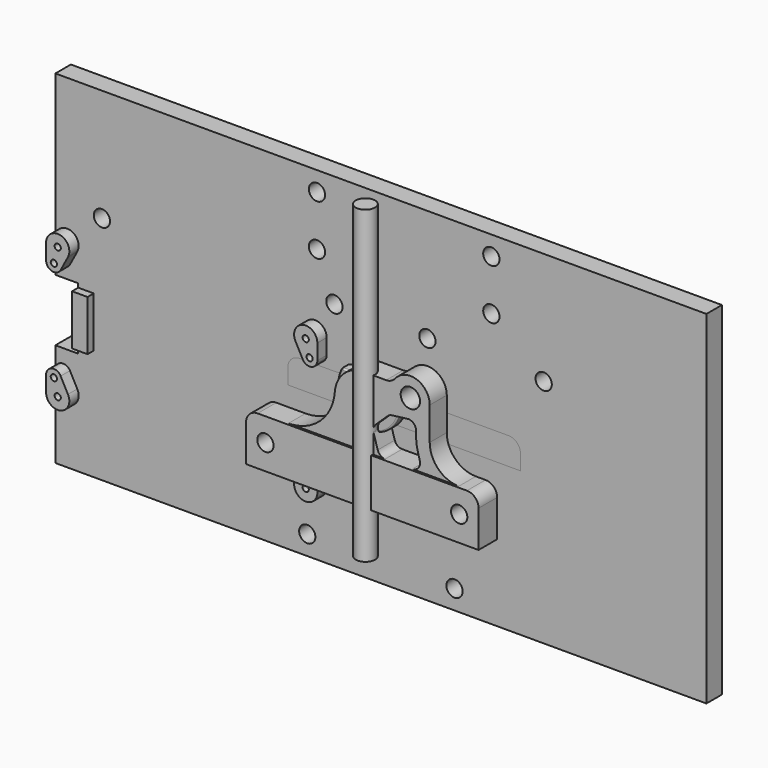
from build123d import *

# Parameters (mm, degrees)
SKETCH001_W          = 168
SKETCH001_H          = 88.5
PAD_DEPTH            = 5
SKETCH022_R          = 2.1
HOLE_DEPTH           = 25
SKETCH018_W          = 4
SKETCH018_H          = 13
PAD004_DEPTH         = 3
SKETCH023_R          = 0.8
SKETCH023_W          = 5.9
SKETCH023_H          = 16
POCKET005_DEPTH      = 5.001
POCKET005_DEPTH_BACK = 3.001
SKETCH025_W          = 8
SKETCH025_H          = 14
POCKET006_DEPTH      = 1
SKETCH027_R          = 0.8
HOLE004_DEPTH        = 2.519312
HOLE004_TIPS_R       = 0.8
SKETCH015_W          = 16
SKETCH015_H          = 16
POCKET_DEPTH         = 4.001
POCKET_DEPTH_BACK    = 4.001
SKETCH016_R          = 2.5
POCKET002_DEPTH      = 8
FILLET_R             = 0.4
FILLET001_R          = 0.4
SKETCH004_W          = 2.5
SKETCH004_H          = 80
SKETCH020_R          = 2.5
SKETCH020_R_2        = 2.1
PAD003_DEPTH         = 6
SKETCH021_W          = 60
SKETCH021_H          = 22
POCKET004_DEPTH      = 0.5
SKETCH010_R          = 4
SKETCH010_R_2        = 2.5
PAD001_DEPTH         = 23
SKETCH011_R          = 5
POCKET001_DEPTH      = 3
POCKET003_DEPTH      = 14
HOLE003_D            = 4.4
HOLE003_DEPTH        = 25
HOLE003_CSINK_D      = 8
HOLE003_CSINK_ANGLE  = 90


with BuildPart() as door:
    # Sketch001 → Pad (new body)
    with BuildSketch(Plane.XZ):
        Rectangle(SKETCH001_W, SKETCH001_H)
    extrude(amount=-PAD_DEPTH)

    # Sketch022 → Hole (cut)
    with BuildSketch(Plane.XZ):
        with Locations((28.5, 39.25)):
            Circle(SKETCH022_R)
        with Locations((28.5, 26.25)):
            Circle(SKETCH022_R)
        with Locations((-16.5, 26.25)):
            Circle(SKETCH022_R)
        with Locations((-16.5, 39.25)):
            Circle(SKETCH022_R)
        with Locations((-72, 15.25)):
            Circle(SKETCH022_R)
        with Locations((-12, 15.25)):
            Circle(SKETCH022_R)
        with Locations((12, 15.25)):
            Circle(SKETCH022_R)
        with Locations((42, 15.25)):
            Circle(SKETCH022_R)
        with Locations((19, -39.25)):
            Circle(SKETCH022_R)
        with Locations((-19, -39.25)):
            Circle(SKETCH022_R)
    extrude(amount=-HOLE_DEPTH, mode=Mode.SUBTRACT)

    # Sketch018 → Pad004 (join)
    with BuildSketch(Plane.XZ):
        with Locations((-76.1, -9)):
            Rectangle(SKETCH018_W, SKETCH018_H)
        with BuildLine():
            ThreePointArc((-14, 7), (-17.727607, 9.910428), (-19.647059, 5.588235))
            Line((-19.647059, 5.588235), (-17.764706, 2.058824))
            ThreePointArc((-17.764706, 2.058824), (-15.514929, 1.059715), (-14, 3))
            Line((-14, 7), (-14, 3))
        make_face()
        with BuildLine():
            ThreePointArc((-19.647059, -25.588235), (-17.727607, -29.910428), (-14, -27))
            Line((-14, -27), (-14, -23))
            ThreePointArc((-14, -23), (-15.514929, -21.059715), (-17.764706, -22.058824))
            Line((-19.647059, -25.588235), (-17.764706, -22.058824))
        make_face()
        with BuildLine():
            ThreePointArc((-80.235294, -22.058824), (-82.485071, -21.059715), (-84, -23))
            Line((-84, -23), (-84, -27))
            ThreePointArc((-84, -27), (-80.272393, -29.910428), (-78.352941, -25.588235))
            Line((-80.235294, -22.058824), (-78.352941, -25.588235))
        make_face()
        with BuildLine():
            ThreePointArc((-78.352941, 5.588235), (-80.272393, 9.910428), (-84, 7))
            Line((-84, 7), (-84, 3))
            ThreePointArc((-84, 3), (-82.485071, 1.059715), (-80.235294, 2.058824))
            Line((-78.352941, 5.588235), (-80.235294, 2.058824))
        make_face()
    extrude(amount=PAD004_DEPTH)

    # Sketch023 → Pocket005 (cut, two sides)
    with BuildSketch(Plane.XZ) as pocket005_sk:
        with Locations((-81, 7)):
            Circle(SKETCH023_R)
        with Locations((-17, 7)):
            Circle(SKETCH023_R)
        with Locations((-17, -27)):
            Circle(SKETCH023_R)
        with Locations((-81, -27)):
            Circle(SKETCH023_R)
        with Locations((-16, 3)):
            Circle(SKETCH023_R)
        with Locations((-16, -23)):
            Circle(SKETCH023_R)
        with Locations((-82, -23)):
            Circle(SKETCH023_R)
        with Locations((-82, 3)):
            Circle(SKETCH023_R)
        with Locations((-81.05, -9.5)):
            Rectangle(SKETCH023_W, SKETCH023_H)
    extrude(amount=-POCKET005_DEPTH, mode=Mode.SUBTRACT)
    extrude(pocket005_sk.sketch, amount=POCKET005_DEPTH_BACK, mode=Mode.SUBTRACT)

    # Sketch025 (on Face45 of Pocket005) → Pocket006 (cut)
    with BuildSketch(Plane.XZ.offset(3)):
        with Locations((-76, -9)):
            Rectangle(SKETCH025_W, SKETCH025_H)
    extrude(amount=-POCKET006_DEPTH, mode=Mode.SUBTRACT)

    # Sketch027 (on Face12 of Pocket006) → Hole004 (cut)
    with BuildSketch(Plane(origin=(-78.1, 0, 0), x_dir=(0, 0, -1), z_dir=(-1, 0, 0))):
        with Locations((5.7, 0.5)):
            Circle(SKETCH027_R)
        with Locations((12.2, 0.5)):
            Circle(SKETCH027_R)
    extrude(amount=-HOLE004_DEPTH, mode=Mode.SUBTRACT)

    # Hole004 tips → Hole004 tip 1 section 0
    with BuildSketch(Plane(origin=(-75.580688, 0, 0), x_dir=(0, 0, -1), z_dir=(-1, 0, 0)), mode=Mode.PRIVATE) as hole004_tip_1_s0:
        with Locations((5.7, 0.5)):
            Circle(HOLE004_TIPS_R)
    loft([hole004_tip_1_s0.sketch, Vertex(-75.1, -0.5, -5.7)], mode=Mode.SUBTRACT)

    # Hole004 tips → Hole004 tip 2 section 0
    with BuildSketch(Plane(origin=(-75.580688, 0, 0), x_dir=(0, 0, -1), z_dir=(-1, 0, 0)), mode=Mode.PRIVATE) as hole004_tip_2_s0:
        with Locations((12.2, 0.5)):
            Circle(HOLE004_TIPS_R)
    loft([hole004_tip_2_s0.sketch, Vertex(-75.1, -0.5, -12.2)], mode=Mode.SUBTRACT)


with BuildPart() as bushing:
    # Sketch013 → Revolution001 (revolve)
    with BuildSketch(Plane.XY):
        Polygon((2.5, 56.737314), (4, 56.737314), (4, 36.737314), (5, 36.737314), (5, 33.737314), (2.5, 33.737314), align=None)
    revolve(axis=Axis((0, 0, 0), (0, 1, 0)))


with BuildPart() as slider:
    # Sketch014 → Revolution002 (revolve)
    with BuildSketch(Plane.YZ):
        with BuildLine():
            Line((-4, 0), (-4, -8))
            Line((-4, -8), (-1.5, -8))
            Line((-1.5, -8), (-0.956943, -6.209724))
            ThreePointArc((0.956943, -6.209724), (0, -5.5), (-0.956943, -6.209724))
            Line((0.956943, -6.209724), (1.5, -8))
            Line((1.5, -8), (4, -8))
            Line((4, -8), (4, 0))
            Line((4, 0), (-4, 0))
        make_face()
    revolve(axis=Axis((0, 0, 0), (0, 1, 0)))

    # Sketch015 → Pocket (cut, two sides)
    with BuildSketch(Plane.XZ) as pocket_sk:
        with Locations((0, 12)):
            Rectangle(SKETCH015_W, SKETCH015_H)
    extrude(amount=-POCKET_DEPTH, mode=Mode.SUBTRACT)
    extrude(pocket_sk.sketch, amount=POCKET_DEPTH_BACK, mode=Mode.SUBTRACT)

    # Sketch016 (on DatumPlane) → Pocket002 (cut)
    with BuildSketch(Plane.XY.offset(4)):
        Circle(SKETCH016_R)
    extrude(amount=-POCKET002_DEPTH, mode=Mode.SUBTRACT)

    # Fillet
    fillet_edges = [slider.edges().sort_by_distance(p)[0] for p in [
        (6.928203, -4, -4),
        (6.928203, -1.5, -4),
        (6.928203, 1.5, -4),
        (6.928203, 4, -4),
    ]]
    fillet(fillet_edges, radius=FILLET_R)

    # Fillet001
    fillet001_edges = [slider.edges().sort_by_distance(p)[0] for p in [
        (0, -4, 4),
    ]]
    fillet(fillet001_edges, radius=FILLET001_R)


with BuildPart() as pin:
    # Sketch004 (on DatumPlane) → Revolution (revolve)
    with BuildSketch(Plane.XZ.offset(5)):
        with Locations((1.25, 3.944427)):
            Rectangle(SKETCH004_W, SKETCH004_H)
    revolve(axis=Axis((0, -5, 0), (0, 0, 1)))


with BuildPart() as lock:
    # Sketch020 → Pad003 (new body)
    with BuildSketch(Plane.XZ):
        with BuildLine():
            Line((30, -24.5), (-30, -24.5))
            Line((-30, -24.5), (-30, -15))
            ThreePointArc((-27, -12), (-29.12132, -12.87868), (-30, -15))
            Line((-27, -12), (-19.442222, -12))
            ThreePointArc((-19.442222, -12), (-11.289827, -8.805593), (-7.477778, -0.923077))
            ThreePointArc((0, 6), (-5.095247, 4.003495), (-7.477778, -0.923077))
            Line((5.755002, 6), (0, 6))
            ThreePointArc((5.755002, 6), (7.05404, 6.295837), (8.096876, 7.125))
            ThreePointArc((17, 4), (13.655956, 8.717818), (8.096876, 7.125))
            Line((17, -4.5), (17, 4))
            ThreePointArc((17, -4.5), (19.196699, -9.803301), (24.5, -12))
            Line((27, -12), (24.5, -12))
            ThreePointArc((30, -15), (29.12132, -12.87868), (27, -12))
            Line((30, -24.5), (30, -15))
        make_face()
        with Locations((0, -1)):
            Circle(SKETCH020_R, mode=Mode.SUBTRACT)
        with Locations((-25, -18)):
            Circle(SKETCH020_R_2, mode=Mode.SUBTRACT)
        with Locations((0, -18)):
            Circle(SKETCH020_R_2, mode=Mode.SUBTRACT)
        with Locations((25, -18)):
            Circle(SKETCH020_R_2, mode=Mode.SUBTRACT)
        with Locations((12, 4)):
            Circle(SKETCH020_R, mode=Mode.SUBTRACT)
        with BuildLine():
            Line((12.5, -12), (5.5, -12))
            ThreePointArc((3.584705, -10.575885), (4.306637, -11.604956), (5.5, -12))
            Line((3.584705, -10.575885), (2.509519, -7))
            ThreePointArc((3.042806, -4.978413), (2.490969, -5.913973), (2.509519, -7))
            Line((3.042806, -4.978413), (6.117992, -2.038713))
            ThreePointArc((7.250809, -1.5), (6.641073, -1.678247), (6.117992, -2.038713))
            Line((7.250809, -1.5), (11.250809, -0.997705))
            ThreePointArc((13.5, -2.98212), (12.823182, -1.48239), (11.250809, -0.997705))
            Line((13.5, -2.98212), (13.5, -4.5))
            ThreePointArc((13.5, -4.5), (13.589499, -5.900346), (13.85654, -7.277905))
            Line((13.85654, -7.277905), (14.435175, -9.494926))
            ThreePointArc((12.5, -12), (14.082742, -11.222672), (14.435175, -9.494926))
        make_face(mode=Mode.SUBTRACT)
    extrude(amount=PAD003_DEPTH)

    # Sketch021 → Pocket004 (cut)
    with BuildSketch(Plane.XZ.offset(6)):
        with Locations((0, -1)):
            Rectangle(SKETCH021_W, SKETCH021_H)
    extrude(amount=-POCKET004_DEPTH, mode=Mode.SUBTRACT)


with BuildPart() as bushingholder:
    # Sketch010 → Pad001 (new body)
    with BuildSketch(Plane.XZ):
        with BuildLine():
            Line((-24, -7), (-24, -3))
            ThreePointArc((-21, 0), (-23.12132, -0.87868), (-24, -3))
            Line((-21, 0), (-12, 0))
            ThreePointArc((-12, 0), (-8.645898, 0.791796), (-6, 3))
            ThreePointArc((0, 6), (-3.354102, 5.208204), (-6, 3))
            Line((0, 6), (5.755002, 6))
            ThreePointArc((5.755002, 6), (7.05404, 6.295837), (8.096876, 7.125))
            ThreePointArc((16.8, 5.4), (12.972113, 8.904589), (8.096876, 7.125))
            ThreePointArc((16.8, 5.4), (19.5, 1.5), (24, 0))
            Line((24, 0), (33, 0))
            ThreePointArc((36, -3), (35.12132, -0.87868), (33, 0))
            Line((36, -3), (36, -7))
            Line((36, -7), (-24, -7))
        make_face()
        with Locations((0, -1)):
            Circle(SKETCH010_R, mode=Mode.SUBTRACT)
        with Locations((12, 4)):
            Circle(SKETCH010_R_2, mode=Mode.SUBTRACT)
    extrude(amount=-PAD001_DEPTH)

    # Sketch011 → Pocket001 (cut)
    with BuildSketch(Plane.XZ):
        with Locations((0, -1)):
            Circle(SKETCH011_R)
    extrude(amount=-POCKET001_DEPTH, mode=Mode.SUBTRACT)

    # Sketch019 → Pocket003 (cut)
    with BuildSketch(Plane.XZ):
        with BuildLine():
            ThreePointArc((6.776309, 1.714286), (4.008919, 4.838657), (0, 6))
            Line((0, 9), (0, 6))
            Line((24, 9), (0, 9))
            Line((24, 9), (24, 0))
            Line((9.486833, 0), (24, 0))
            ThreePointArc((6.776309, 1.714286), (7.883266, 0.464537), (9.486833, 0))
        make_face()
    extrude(amount=-POCKET003_DEPTH, mode=Mode.SUBTRACT)

    # Hole003
    with Locations(Plane.XY):
        with Locations((-16.5, 18), (28.5, 18), (28.5, 5), (-16.5, 5)):
            CounterSinkHole(HOLE003_D / 2, HOLE003_CSINK_D / 2, depth=HOLE003_DEPTH, counter_sink_angle=HOLE003_CSINK_ANGLE)


solid = Compound([door.part, bushing.part, slider.part, pin.part, lock.part, bushingholder.part])
